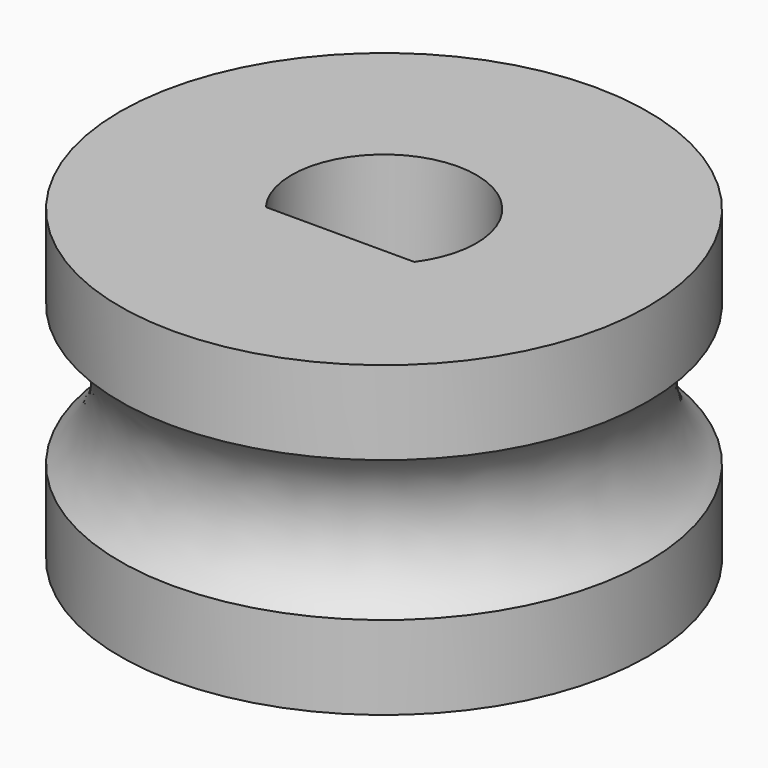
from build123d import *

# Parameters (mm, degrees)
SKETCH_R     = 3
PAD_DEPTH    = 3.5
SKETCH002_R  = 1.75
POCKET_DEPTH = 1.2
TORUS_R      = 1


with BuildPart() as part:
    # Sketch → Pad (new body)
    with BuildSketch(Plane.XY):
        Circle(SKETCH_R)
        with BuildLine():
            ThreePointArc((0.843727, -0.625), (0, 1.05), (-0.843727, -0.625))
            Line((-0.843727, -0.625), (0.843727, -0.625))
        make_face(mode=Mode.SUBTRACT)
    extrude(amount=PAD_DEPTH)

    # Sketch002 (on Face4 of Pad) → Pocket (cut)
    with BuildSketch(Plane(origin=(0, 0, 0), x_dir=(1, 0, 0), z_dir=(0, 0, -1))):
        Circle(SKETCH002_R)
    extrude(amount=-POCKET_DEPTH, mode=Mode.SUBTRACT)

    # Torus → Torus (revolve, cut)
    with BuildSketch(Plane(origin=(0, 0, 1.75), x_dir=(1, 0, 0), z_dir=(0, -1, 0))):
        with Locations((3.6, 0)):
            Circle(TORUS_R)
    revolve(axis=Axis((0, 0, 1.75), (0, 0, 1)), mode=Mode.SUBTRACT)


solid = part.part
